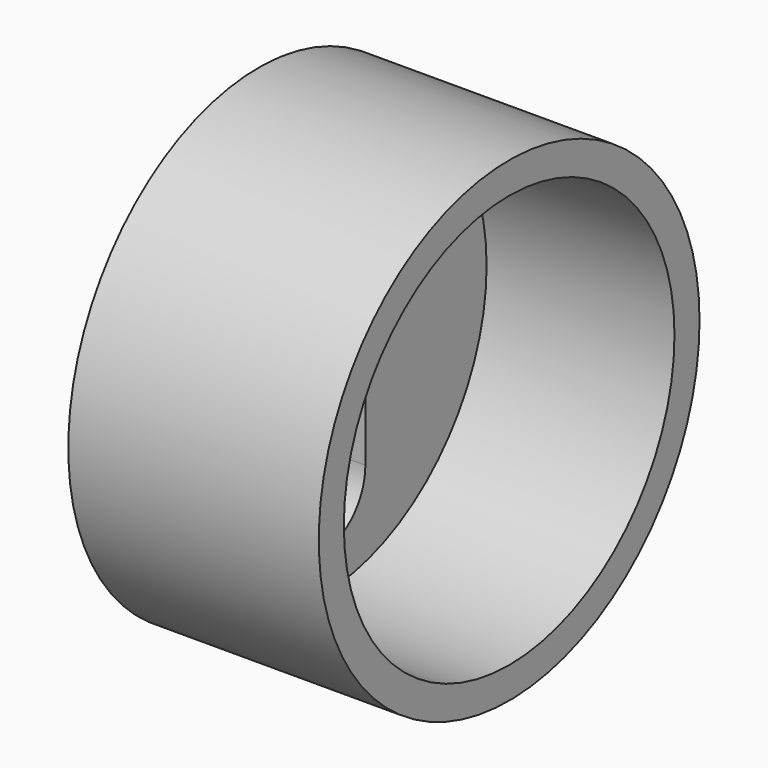
from build123d import *

# Parameters (mm, degrees)
F0_R     = 9.5
F0_R_2   = 8.25
F1_DEPTH = 2.5
F2_DEPTH = 10


with BuildPart() as f1:
    # F0 (on Right) → F1 (new body)
    with BuildSketch(Plane.YZ):
        Circle(F0_R)
        Circle(F0_R_2, mode=Mode.SUBTRACT)
        Circle(F0_R_2)
        with BuildLine():
            ThreePointArc((-2.2, -1.05981), (-2.460945, 7.212788), (4.75, 3.15))
            ThreePointArc((4.75, 3.15), (4.062788, 0.689055), (2.2, -1.05981))
            Line((2.2, -1.05981), (2.2, -4.55981))
            ThreePointArc((2.2, -4.55981), (0, -6.75981), (-2.2, -4.55981))
            Line((-2.2, -4.55981), (-2.2, -1.05981))
        make_face(mode=Mode.SUBTRACT)
    extrude(amount=F1_DEPTH)

    # F0 (on Right) → F2 (join)
    with BuildSketch(Plane.YZ):
        Circle(F0_R)
        Circle(F0_R_2, mode=Mode.SUBTRACT)
    extrude(amount=F2_DEPTH)


solid = f1.part
